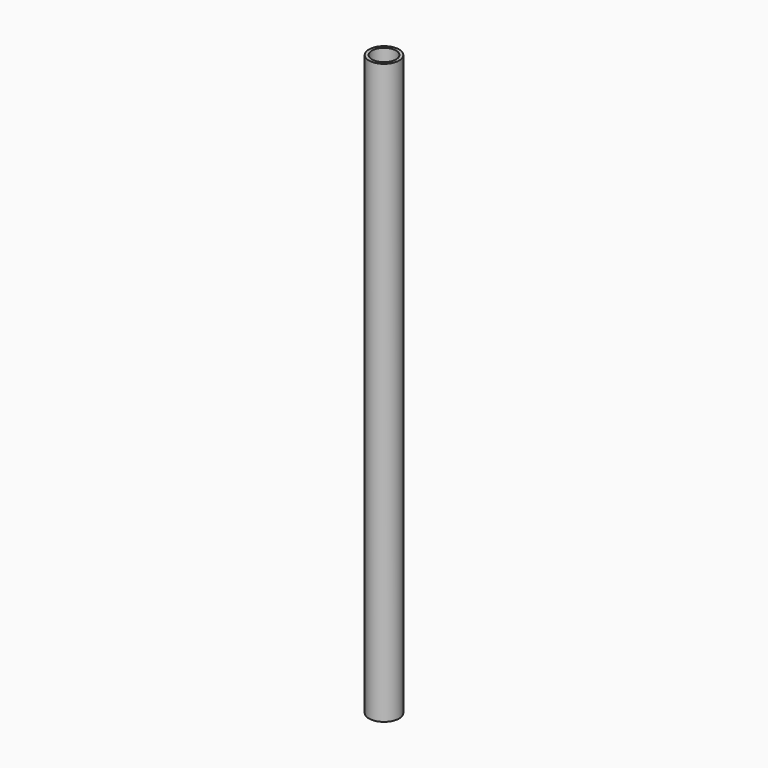
from build123d import *

# Parameters (mm, degrees)
CYLINDER001_R     = 0.5
CYLINDER001_DEPTH = 24
CYLINDER_R        = 0.625
CYLINDER_DEPTH    = 24


with BuildPart() as tool:
    # Cylinder001 → Cylinder001 (new body)
    with BuildSketch(Plane.XY):
        Circle(CYLINDER001_R)
    extrude(amount=CYLINDER001_DEPTH)


with BuildPart() as cut:
    # Cylinder → Cylinder (new body)
    with BuildSketch(Plane.XY):
        Circle(CYLINDER_R)
    extrude(amount=CYLINDER_DEPTH)

    # Cut: cut tool
    add(tool.part, mode=Mode.SUBTRACT)


solid = cut.part
